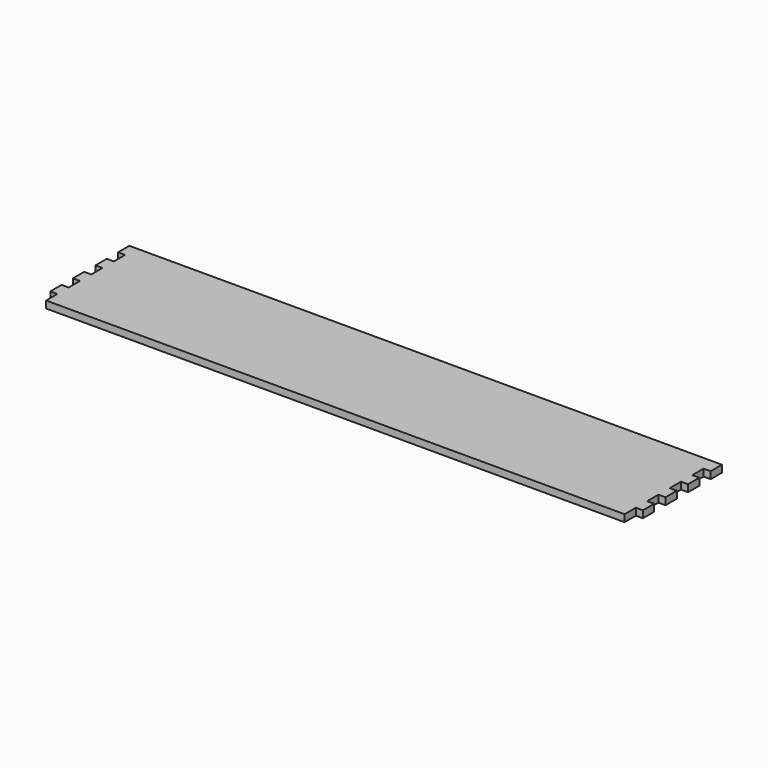
from build123d import *

# Parameters (mm, degrees)
SKETCH_W               = 533.4
SKETCH_H               = 101.6
PAD_DEPTH              = 6.35
SKETCH010_W            = 6.35
SKETCH010_H            = 12.7
POCKET004_DEPTH        = 0.001
POCKET004_DEPTH_BACK   = 6.351
LINEARPATTERN005_COUNT = 6
LINEARPATTERN005_PITCH = 25.4


with BuildPart() as part:
    # Sketch → Pad (new body)
    with BuildSketch(Plane.XY):
        with Locations((266.7, -50.8)):
            Rectangle(SKETCH_W, SKETCH_H)
    extrude(amount=PAD_DEPTH)

    # Sketch010 → Pocket004 (cut, two sides)
    with BuildSketch(Plane.XY) as pocket004_sk:
        with Locations((3.175, -19.05)):
            Rectangle(SKETCH010_W, SKETCH010_H)
        with Locations((530.225, -19.05)):
            Rectangle(SKETCH010_W, SKETCH010_H)
    pocket004 = extrude(amount=-POCKET004_DEPTH, mode=Mode.SUBTRACT) + extrude(pocket004_sk.sketch, amount=POCKET004_DEPTH_BACK, mode=Mode.SUBTRACT)

    # LinearPattern005: Pocket004 ×6
    with Locations(*[(0, -i * LINEARPATTERN005_PITCH, 0) for i in range(1, LINEARPATTERN005_COUNT)]):
        add(pocket004, mode=Mode.SUBTRACT)


solid = part.part
